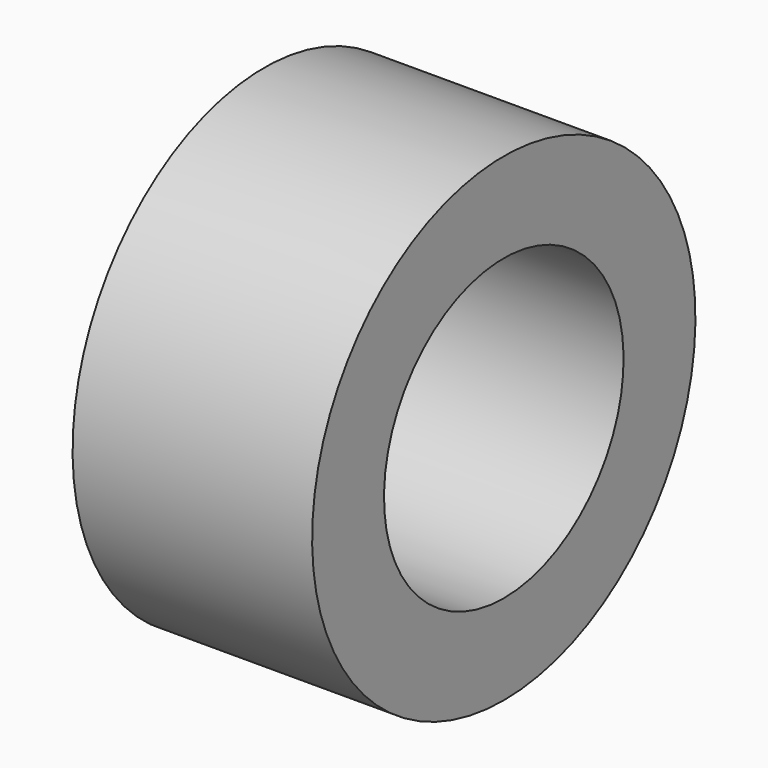
from build123d import *

# Parameters (mm, degrees)
CYLINDER016_R     = 2.5
CYLINDER016_DEPTH = 10
CYLINDER017_R     = 4
CYLINDER017_DEPTH = 4


with BuildPart() as cylinder004:
    # Cylinder016 → Cylinder016 (new body)
    with BuildSketch(Plane(origin=(23.5, -39, -22), x_dir=(0, 0, -1), z_dir=(1, 0, 0))):
        Circle(CYLINDER016_R)
    extrude(amount=CYLINDER016_DEPTH)


with BuildPart() as obj1:
    # Cylinder017 → Cylinder017 (new body)
    with BuildSketch(Plane(origin=(26.5, -39, -22), x_dir=(0, 0, -1), z_dir=(1, 0, 0))):
        Circle(CYLINDER017_R)
    extrude(amount=CYLINDER017_DEPTH)

    # Cut009: cut Cylinder004
    add(cylinder004.part, mode=Mode.SUBTRACT)


with BuildPart() as obj1_1:
    # Cut009 placement: moved
    add(obj1.part.moved(Location((49.5, 60, 2.5))))


solid = obj1_1.part
